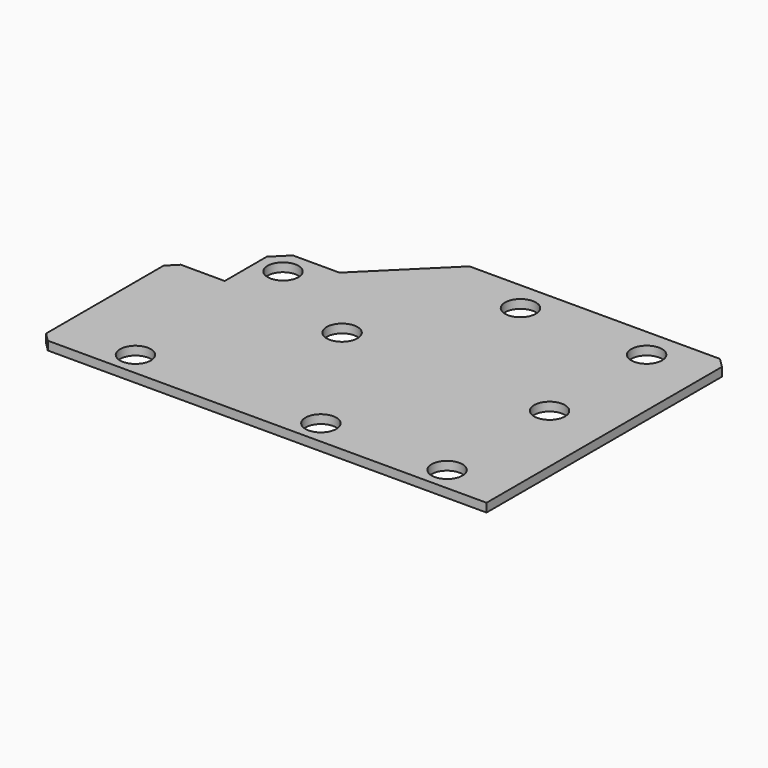
from build123d import *

# Parameters (mm, degrees)
F0_R     = 1.6
F1_DEPTH = 0.9


with BuildPart() as f1:
    # F0 (on Top) → F1 (new body)
    with BuildSketch(Plane.XY):
        Polygon((-23.225, -14.8725), (-22.325, -15.7725), (23.225, -15.7725), (23.225, 14.7725), (22.225, 15.7725), (-3.783311, 15.7725), (-11.325, 8.3275), (-16.165, 8.3275), (-17.675, 6.8275), (-17.675, 1.3675), (-22.235, 1.3775), (-23.225, 0.3875), (-23.225, -7.3323), (-23.225, -13.0127), align=None)
        with Locations((-15.225, -13.2725)):
            Circle(F0_R, mode=Mode.SUBTRACT)
        with Locations((4.025, -13.2725)):
            Circle(F0_R, mode=Mode.SUBTRACT)
        with Locations((17.125, -13.2725)):
            Circle(F0_R, mode=Mode.SUBTRACT)
        with Locations((-15.025, 5.627501)):
            Circle(F0_R, mode=Mode.SUBTRACT)
        with Locations((-4.575, 0.2275)):
            Circle(F0_R, mode=Mode.SUBTRACT)
        with Locations((17.125, 0.0275)):
            Circle(F0_R, mode=Mode.SUBTRACT)
        with Locations((4.025, 12.6275)):
            Circle(F0_R, mode=Mode.SUBTRACT)
        with Locations((17.125, 12.6275)):
            Circle(F0_R, mode=Mode.SUBTRACT)
    extrude(amount=F1_DEPTH)


solid = f1.part
